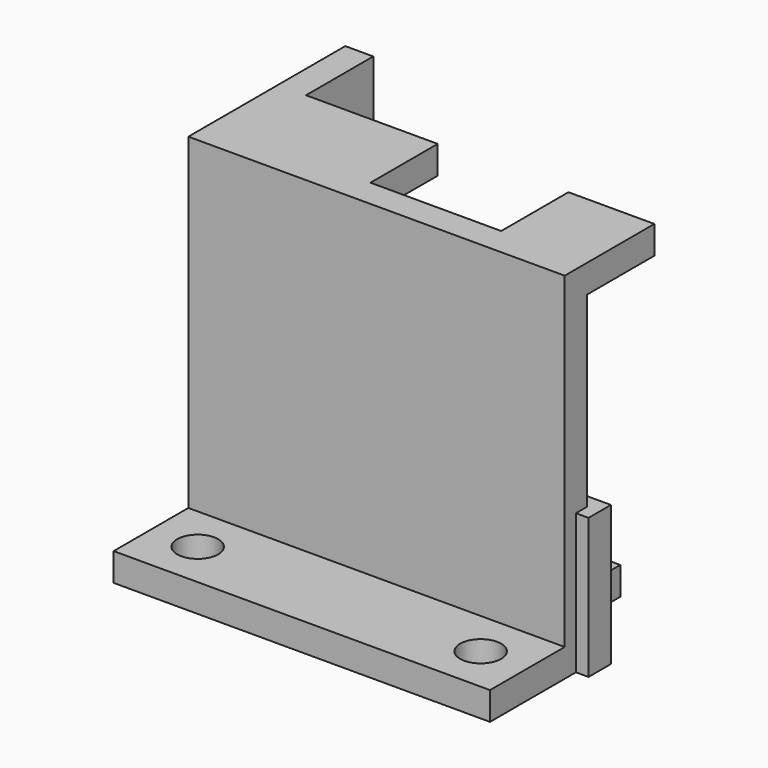
from build123d import *

# Parameters (mm, degrees)
PAD_DEPTH     = 38
SKETCH001_W   = 9.2
SKETCH001_H   = 3
SKETCH001_W_2 = 14.1
PAD001_DEPTH  = 9
SKETCH002_W   = 40.3
SKETCH002_H   = 3
PAD002_DEPTH  = 10
SKETCH003_R   = 2.2
HOLE_DEPTH    = 3.001
PAD003_DEPTH  = 15
SKETCH005_W   = 10
SKETCH005_H   = 3
PAD004_DEPTH  = 10
SKETCH006_R   = 2.2
HOLE001_DEPTH = 25


with BuildPart() as mount1:
    # Sketch → Pad (new body)
    with BuildSketch(Plane.XY):
        Polygon((-18.65, 1.5), (18.65, 1.5), (18.65, -1.5), (-21.65, -1.5), (-21.65, 19.5), (-18.65, 19.5), align=None)
    extrude(amount=PAD_DEPTH)

    # Sketch001 (on Face1 of Pad) → Pad001 (join)
    with BuildSketch(Plane(origin=(0, 1.5, 0), x_dir=(-1, 0, 0), z_dir=(0, 1, 0))):
        with Locations((-14.05, 36.5)):
            Rectangle(SKETCH001_W, SKETCH001_H)
        with Locations((11.6, 36.5)):
            Rectangle(SKETCH001_W_2, SKETCH001_H)
    extrude(amount=PAD001_DEPTH)

    # Sketch002 (on Face10 of Pad001) → Pad002 (join)
    with BuildSketch(Plane.XZ.offset(1.5)):
        with Locations((-1.5, 1.5)):
            Rectangle(SKETCH002_W, SKETCH002_H)
    extrude(amount=PAD002_DEPTH)

    # Sketch003 (on Face22 of Pad002) → Hole (cut, through all)
    with BuildSketch(Plane.XY.offset(3)):
        with Locations((-16.65, -6.5)):
            Circle(SKETCH003_R)
        with Locations((13.65, -6.5)):
            Circle(SKETCH003_R)
    extrude(amount=-HOLE_DEPTH, mode=Mode.SUBTRACT)


with BuildPart() as mount2:
    # Sketch004 → Pad003 (new body)
    with BuildSketch(Plane.XY):
        Polygon((0, 20), (0, 0), (20, 0), (20, 3), (3, 3), (3, 20), align=None)
    extrude(amount=PAD003_DEPTH)

    # Sketch005 (on Face4 of Pad003) → Pad004 (join)
    with BuildSketch(Plane(origin=(0, 3, 0), x_dir=(-1, 0, 0), z_dir=(0, 1, 0))):
        with Locations((-8, 1.5)):
            Rectangle(SKETCH005_W, SKETCH005_H)
    extrude(amount=PAD004_DEPTH)

    # Sketch006 (on Face10 of Pad004) → Hole001 (cut)
    with BuildSketch(Plane.XY.offset(3)):
        with Locations((8, 8)):
            Circle(SKETCH006_R)
    extrude(amount=-HOLE001_DEPTH, mode=Mode.SUBTRACT)


solid = Compound([mount1.part, mount2.part])
